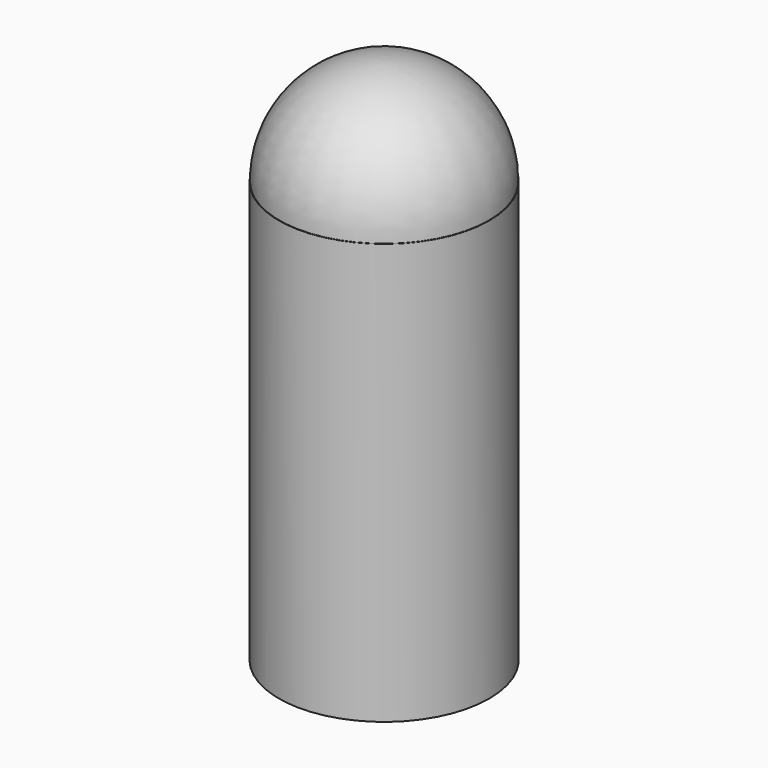
from build123d import *

# Parameters (mm, degrees)
F0_R     = 7.5
F1_DEPTH = 30


with BuildPart() as f1:
    # F0 (on Top) → F1 (new body)
    with BuildSketch(Plane.XY):
        Circle(F0_R)
    extrude(amount=F1_DEPTH)


with BuildPart() as f3:
    # F2 (on Front) → F3 (revolve)
    with BuildSketch(Plane.XZ):
        with BuildLine():
            Line((0, 30.094603), (7.469842, 30))
            ThreePointArc((7.469842, 30), (5.315741, 35.343449), (0, 37.565044))
            Line((0, 37.565044), (0, 30.094603))
        make_face()
    revolve(axis=Axis((0, 0, 33.829823), (0, 0, 1)))


solid = Compound([f1.part, f3.part])
